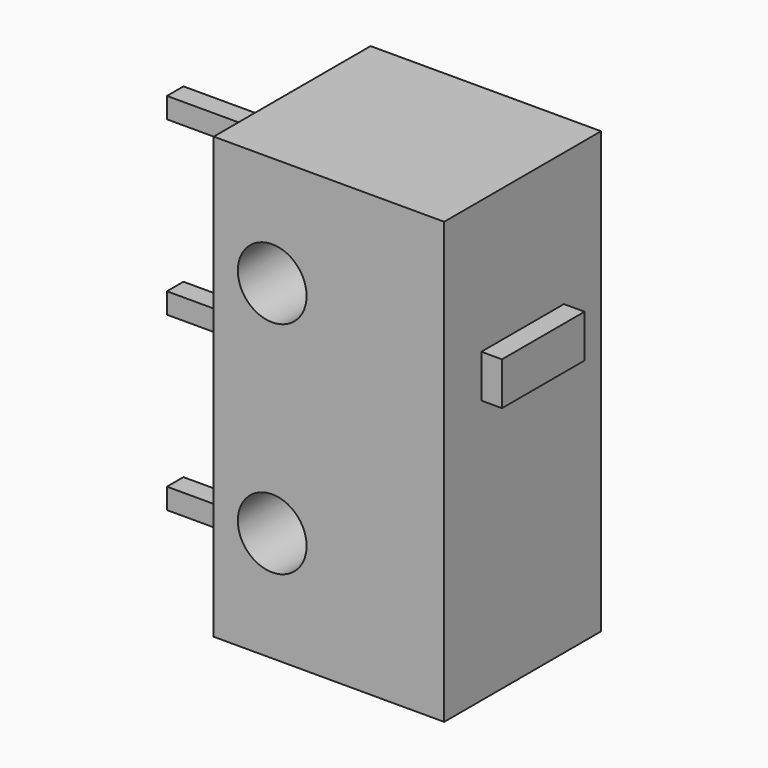
from build123d import *

# Parameters (mm, degrees)
F0_W     = 6.7
F0_H     = 12.8
F0_R     = 1
F1_DEPTH = 2.85
F2_W     = 0.6
F2_H     = 0.6
F3_DEPTH = 3.4
F4_W     = 3
F4_H     = 1.25
F5_DEPTH = 0.6


with BuildPart() as f1:
    # F0 (on Front) → F1 (new body, symmetric)
    with BuildSketch(Plane.XZ):
        Rectangle(F0_W, F0_H)
        with Locations((-1.65, -3.2)):
            Circle(F0_R, mode=Mode.SUBTRACT)
        with Locations((-1.65, 3.2)):
            Circle(F0_R, mode=Mode.SUBTRACT)
    extrude(amount=F1_DEPTH, both=True)

    # F2 (on face) → F3 (join)
    with BuildSketch(Plane(origin=(-3.35, 0, 0), x_dir=(0, -1, 0), z_dir=(-1, 0, 0))):
        Rectangle(F2_W, F2_H)
        with Locations((0, 5)):
            Rectangle(F2_W, F2_H)
        with Locations((0, -5)):
            Rectangle(F2_W, F2_H)
    extrude(amount=F3_DEPTH)

    # F4 (on face) → F5 (join)
    with BuildSketch(Plane.YZ.offset(3.35)):
        with Locations((0, 1.9)):
            Rectangle(F4_W, F4_H)
    extrude(amount=F5_DEPTH)


solid = f1.part
